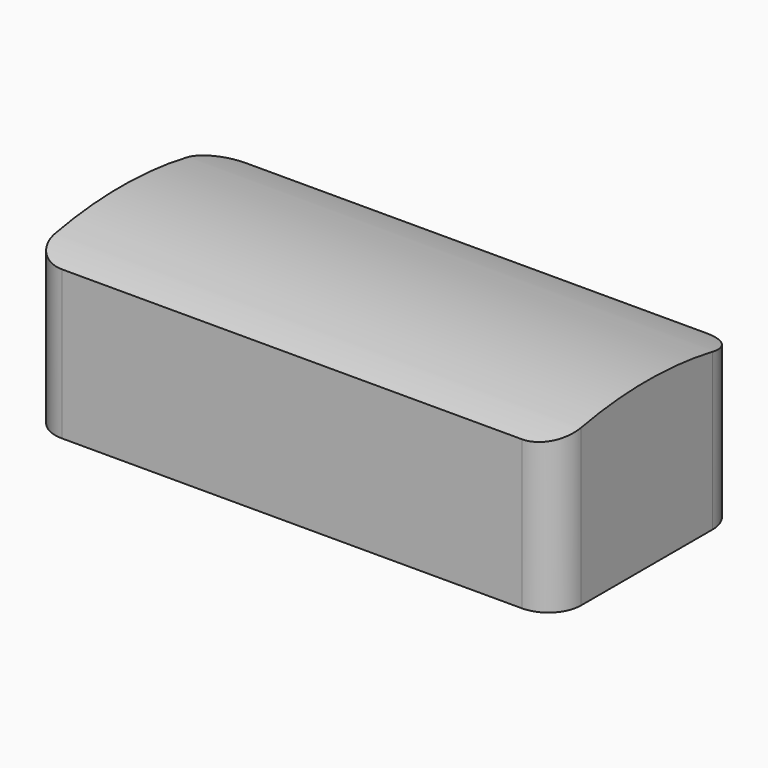
from build123d import *

# Parameters (mm, degrees)
F1_DEPTH = 8
F2_R     = 1


with BuildPart() as f1:
    # F0 (on Right) → F1 (new body, symmetric)
    with BuildSketch(Plane.YZ):
        with BuildLine():
            Line((-3.5, -2.264152), (3.5, -2.264152))
            Line((3.5, -2.264152), (3.5, 2.264152))
            ThreePointArc((3.5, 2.264152), (0, 2.735848), (-3.5, 2.264152))
            Line((-3.5, 2.264152), (-3.5, -2.264152))
        make_face()
    extrude(amount=F1_DEPTH, both=True)

    # F2
    f2_edges = [f1.edges().sort_by_distance(p)[0] for p in [
        (8, -3.5, 0),
        (-8, -3.5, 0),
        (8, 3.5, 0),
        (-8, 3.5, 0),
    ]]
    fillet(f2_edges, radius=F2_R)


solid = f1.part
